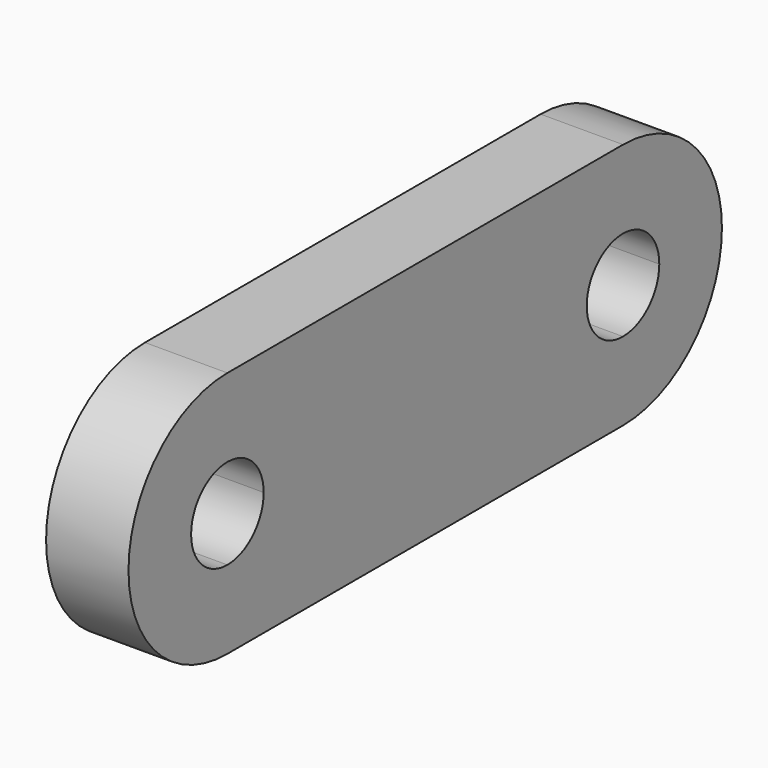
from build123d import *

# Parameters (mm, degrees)
F1_DEPTH = 6.35


with BuildPart() as f1:
    # F0 (on Right) → F1 (new body)
    with BuildSketch(Plane.YZ):
        with BuildLine():
            Line((-19.05, -9.525), (19.05, -9.525))
            Line((19.05, -9.525), (19.05, -3.4925))
            ThreePointArc((19.05, -3.4925), (15.5575, 0), (19.05, 3.4925))
            Line((19.05, 3.4925), (19.05, 9.525))
            Line((19.05, 9.525), (-19.05, 9.525))
            Line((-19.05, 9.525), (-19.05, 3.4925))
            ThreePointArc((-19.05, 3.4925), (-16.58043, 2.46957), (-15.5575, 0))
            ThreePointArc((-15.5575, 0), (-16.58043, -2.46957), (-19.05, -3.4925))
            Line((-19.05, -3.4925), (-19.05, -9.525))
        make_face()
        with BuildLine():
            Line((19.05, -3.4925), (19.05, -9.525))
            ThreePointArc((19.05, -9.525), (28.575, 0), (19.05, 9.525))
            Line((19.05, 9.525), (19.05, 3.4925))
            ThreePointArc((19.05, 3.4925), (21.51957, 2.46957), (22.5425, 0))
            ThreePointArc((22.5425, 0), (21.51957, -2.46957), (19.05, -3.4925))
        make_face()
        with BuildLine():
            ThreePointArc((-19.05, 9.525), (-28.575, 0), (-19.05, -9.525))
            Line((-19.05, -9.525), (-19.05, -3.4925))
            ThreePointArc((-19.05, -3.4925), (-22.5425, 0), (-19.05, 3.4925))
            Line((-19.05, 3.4925), (-19.05, 9.525))
        make_face()
    extrude(amount=F1_DEPTH)


solid = f1.part
